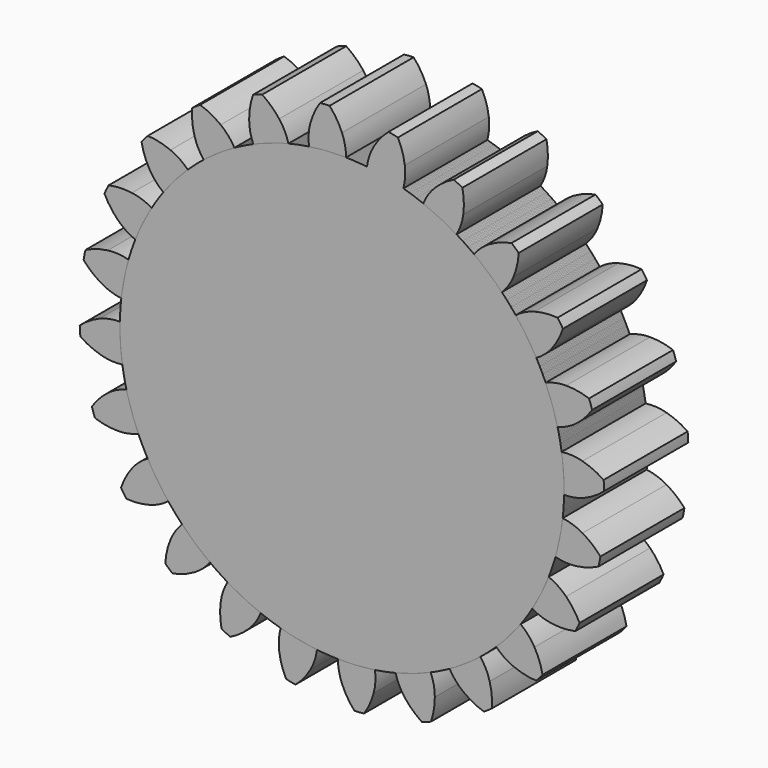
from build123d import *

# Parameters (mm, degrees)
F1_DEPTH = 25.4
F2_COUNT = 24
F2_ANGLE = 345


with BuildPart() as f1:
    # F0 (on Front) → F1 (new body)
    with BuildSketch(Plane.XZ):
        with BuildLine():
            ThreePointArc((-7.975719, 53.125641), (-3.513522, 53.605979), (0.973198, 53.712184))
            ThreePointArc((0.973198, 53.712184), (0.733283, 56.241476), (0, 58.674))
            ThreePointArc((0, 58.674), (-1.29289, 61.178601), (-2.989233, 63.429603))
            ThreePointArc((-2.989233, 63.429603), (-4.154209, 63.380975), (-5.315565, 63.277127))
            ThreePointArc((-5.315565, 63.277127), (-6.703581, 60.823965), (-7.658494, 58.172036))
            ThreePointArc((-7.658494, 58.172036), (-8.067995, 55.66461), (-7.975719, 53.125641))
        make_face()
        with BuildLine():
            ThreePointArc((-7.975719, 53.125641), (-35.053404, -40.708779), (53.721, 0))
            ThreePointArc((53.721, 0), (38.329016, 37.640833), (0.973198, 53.712184))
            ThreePointArc((0.973198, 53.712184), (-3.513522, 53.605979), (-7.975719, 53.125641))
        make_face()
    extrude(amount=F1_DEPTH)


with BuildPart() as f2_1:
    # F2: instance of F1
    add(f1.part.rotate(Axis((0, -25.4, 0), (0, -1, 0)), 1 * F2_ANGLE / (F2_COUNT - 1)))


with BuildPart() as f2_2:
    # F2: instance of F1
    add(f1.part.rotate(Axis((0, -25.4, 0), (0, -1, 0)), 2 * F2_ANGLE / (F2_COUNT - 1)))


with BuildPart() as f2_3:
    # F2: instance of F1
    add(f1.part.rotate(Axis((0, -25.4, 0), (0, -1, 0)), 3 * F2_ANGLE / (F2_COUNT - 1)))


with BuildPart() as f2_4:
    # F2: instance of F1
    add(f1.part.rotate(Axis((0, -25.4, 0), (0, -1, 0)), 4 * F2_ANGLE / (F2_COUNT - 1)))


with BuildPart() as f2_5:
    # F2: instance of F1
    add(f1.part.rotate(Axis((0, -25.4, 0), (0, -1, 0)), 5 * F2_ANGLE / (F2_COUNT - 1)))


with BuildPart() as f2_6:
    # F2: instance of F1
    add(f1.part.rotate(Axis((0, -25.4, 0), (0, -1, 0)), 6 * F2_ANGLE / (F2_COUNT - 1)))


with BuildPart() as f2_7:
    # F2: instance of F1
    add(f1.part.rotate(Axis((0, -25.4, 0), (0, -1, 0)), 7 * F2_ANGLE / (F2_COUNT - 1)))


with BuildPart() as f2_8:
    # F2: instance of F1
    add(f1.part.rotate(Axis((0, -25.4, 0), (0, -1, 0)), 8 * F2_ANGLE / (F2_COUNT - 1)))


with BuildPart() as f2_9:
    # F2: instance of F1
    add(f1.part.rotate(Axis((0, -25.4, 0), (0, -1, 0)), 9 * F2_ANGLE / (F2_COUNT - 1)))


with BuildPart() as f2_10:
    # F2: instance of F1
    add(f1.part.rotate(Axis((0, -25.4, 0), (0, -1, 0)), 10 * F2_ANGLE / (F2_COUNT - 1)))


with BuildPart() as f2_11:
    # F2: instance of F1
    add(f1.part.rotate(Axis((0, -25.4, 0), (0, -1, 0)), 11 * F2_ANGLE / (F2_COUNT - 1)))


with BuildPart() as f2_12:
    # F2: instance of F1
    add(f1.part.rotate(Axis((0, -25.4, 0), (0, -1, 0)), 12 * F2_ANGLE / (F2_COUNT - 1)))


with BuildPart() as f2_13:
    # F2: instance of F1
    add(f1.part.rotate(Axis((0, -25.4, 0), (0, -1, 0)), 13 * F2_ANGLE / (F2_COUNT - 1)))


with BuildPart() as f2_14:
    # F2: instance of F1
    add(f1.part.rotate(Axis((0, -25.4, 0), (0, -1, 0)), 14 * F2_ANGLE / (F2_COUNT - 1)))


with BuildPart() as f2_15:
    # F2: instance of F1
    add(f1.part.rotate(Axis((0, -25.4, 0), (0, -1, 0)), 15 * F2_ANGLE / (F2_COUNT - 1)))


with BuildPart() as f2_16:
    # F2: instance of F1
    add(f1.part.rotate(Axis((0, -25.4, 0), (0, -1, 0)), 16 * F2_ANGLE / (F2_COUNT - 1)))


with BuildPart() as f2_17:
    # F2: instance of F1
    add(f1.part.rotate(Axis((0, -25.4, 0), (0, -1, 0)), 17 * F2_ANGLE / (F2_COUNT - 1)))


with BuildPart() as f2_18:
    # F2: instance of F1
    add(f1.part.rotate(Axis((0, -25.4, 0), (0, -1, 0)), 18 * F2_ANGLE / (F2_COUNT - 1)))


with BuildPart() as f2_19:
    # F2: instance of F1
    add(f1.part.rotate(Axis((0, -25.4, 0), (0, -1, 0)), 19 * F2_ANGLE / (F2_COUNT - 1)))


with BuildPart() as f2_20:
    # F2: instance of F1
    add(f1.part.rotate(Axis((0, -25.4, 0), (0, -1, 0)), 20 * F2_ANGLE / (F2_COUNT - 1)))


with BuildPart() as f2_21:
    # F2: instance of F1
    add(f1.part.rotate(Axis((0, -25.4, 0), (0, -1, 0)), 21 * F2_ANGLE / (F2_COUNT - 1)))


with BuildPart() as f2_22:
    # F2: instance of F1
    add(f1.part.rotate(Axis((0, -25.4, 0), (0, -1, 0)), 22 * F2_ANGLE / (F2_COUNT - 1)))


with BuildPart() as f2_23:
    # F2: instance of F1
    add(f1.part.rotate(Axis((0, -25.4, 0), (0, -1, 0)), 23 * F2_ANGLE / (F2_COUNT - 1)))


solid = Compound([f1.part, f2_1.part, f2_2.part, f2_3.part, f2_4.part, f2_5.part, f2_6.part, f2_7.part, f2_8.part, f2_9.part, f2_10.part, f2_11.part, f2_12.part, f2_13.part, f2_14.part, f2_15.part, f2_16.part, f2_17.part, f2_18.part, f2_19.part, f2_20.part, f2_21.part, f2_22.part, f2_23.part])
